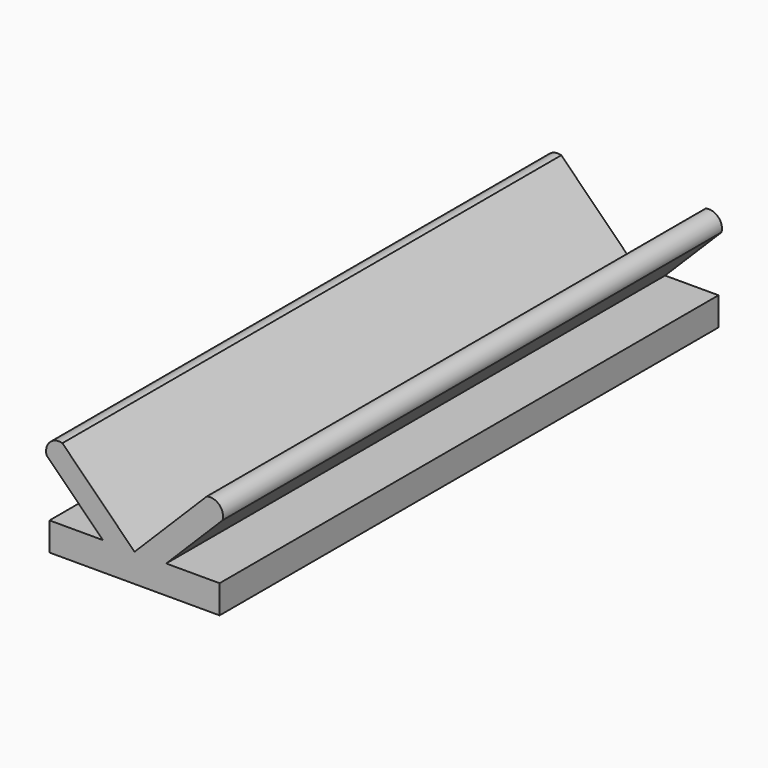
from build123d import *

# Parameters (mm, degrees)
F1_DEPTH = 110
F2_DEPTH = 110


with BuildPart() as f1:
    # F0 (on Front) → F1 (new body)
    with BuildSketch(Plane.XZ):
        Polygon((-22.975978, 5), (-22.975978, 0), (7.024022, 0), (7.024022, 5), (-2.39292, 5), (-7.975978, 5), (-13.559037, 5), align=None)
    extrude(amount=F1_DEPTH)

    # F0 (on Front) → F2 (join)
    with BuildSketch(Plane.XZ):
        with BuildLine():
            Line((-23.49543, 14.936393), (-13.559037, 5))
            Line((-13.559037, 5), (-7.975978, 5))
            Line((-7.975978, 5), (-20.7039, 17.727922))
            ThreePointArc((-20.7039, 17.727922), (-22.924995, 17.157487), (-23.49543, 14.936393))
        make_face()
        with BuildLine():
            Line((-7.975978, 5), (-2.39292, 5))
            Line((-2.39292, 5), (7.543473, 14.936393))
            ThreePointArc((7.543473, 14.936393), (6.973038, 17.157487), (4.751944, 17.727922))
            Line((4.751944, 17.727922), (-7.975978, 5))
        make_face()
    extrude(amount=F2_DEPTH)


solid = f1.part
